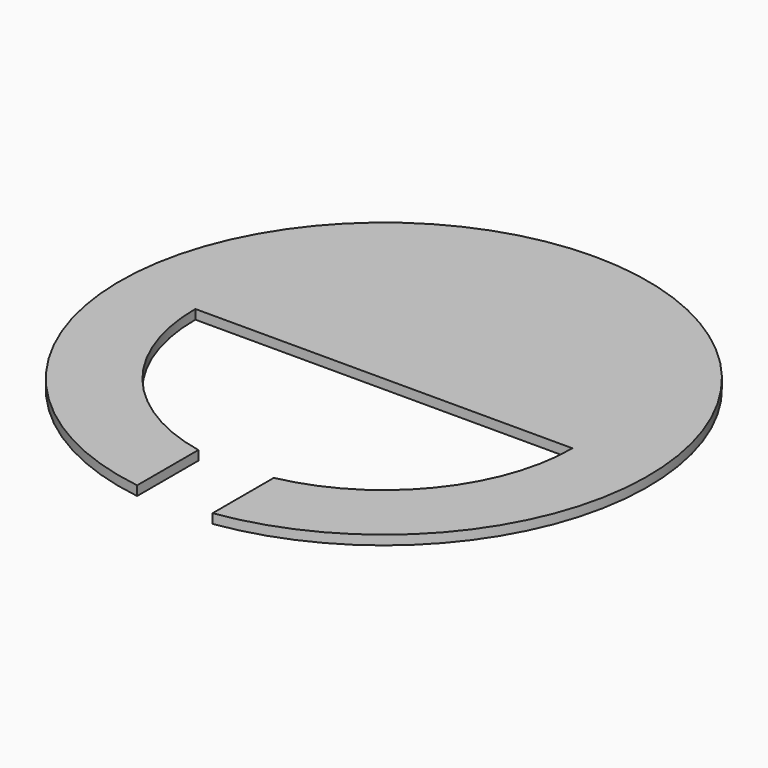
from build123d import *

# Parameters (mm, degrees)
F0_R     = 88.9
F1_DEPTH = 3.175
F3_DEPTH = 6.35


with BuildPart() as f1:
    # F0 (on Top) → F1 (new body)
    with BuildSketch(Plane.XY):
        Circle(F0_R)
        with BuildLine():
            ThreePointArc((-63.5, 0), (0, 63.5), (63.5, 0))
            ThreePointArc((63.5, 0), (0, -63.5), (-63.5, 0))
        make_face(mode=Mode.SUBTRACT)
        with BuildLine():
            Line((-63.5, 0), (63.5, 0))
            ThreePointArc((63.5, 0), (0, 63.5), (-63.5, 0))
        make_face()
    extrude(amount=F1_DEPTH)

    # F2 (on face) → F3 (cut)
    with BuildSketch(Plane.XY.offset(3.175)):
        Polygon((12.7, -58.594692), (0, -58.594692), (-12.7, -58.594692), (-12.7, -96.489258), (12.7, -96.489258), align=None)
    extrude(amount=-F3_DEPTH, mode=Mode.SUBTRACT)


solid = f1.part
